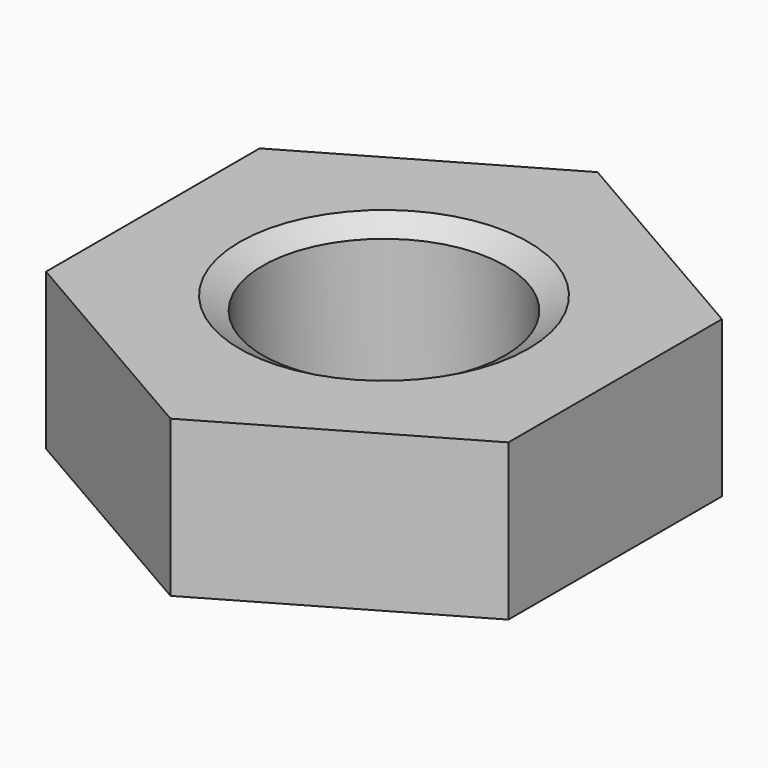
from build123d import *

# Parameters (mm, degrees)
SKETCH001_R  = 5
POCKET_DEPTH = 2.7


with BuildPart() as part:
    # Sketch → Revolution (revolve)
    with BuildSketch(Plane.XZ):
        Polygon((2.5, 0), (2.1, 0.23094), (2.1, 2.46906), (2.5, 2.7), (5, 2.7), (5, 0), align=None)
    revolve(axis=Axis((0, 0, 0), (0, 0, 1)))

    # Sketch001 → Pocket (cut)
    with BuildSketch(Plane(origin=(0, 0, 2.7), x_dir=(-1, 0, 0), z_dir=(0, 0, 1))):
        Circle(SKETCH001_R)
        Polygon((-4, 2.309401), (-4, -2.309401), (0, -4.618802), (4, -2.309401), (4, 2.309401), (0, 4.618802), align=None, mode=Mode.SUBTRACT)
    extrude(amount=-POCKET_DEPTH, mode=Mode.SUBTRACT)


solid = part.part
